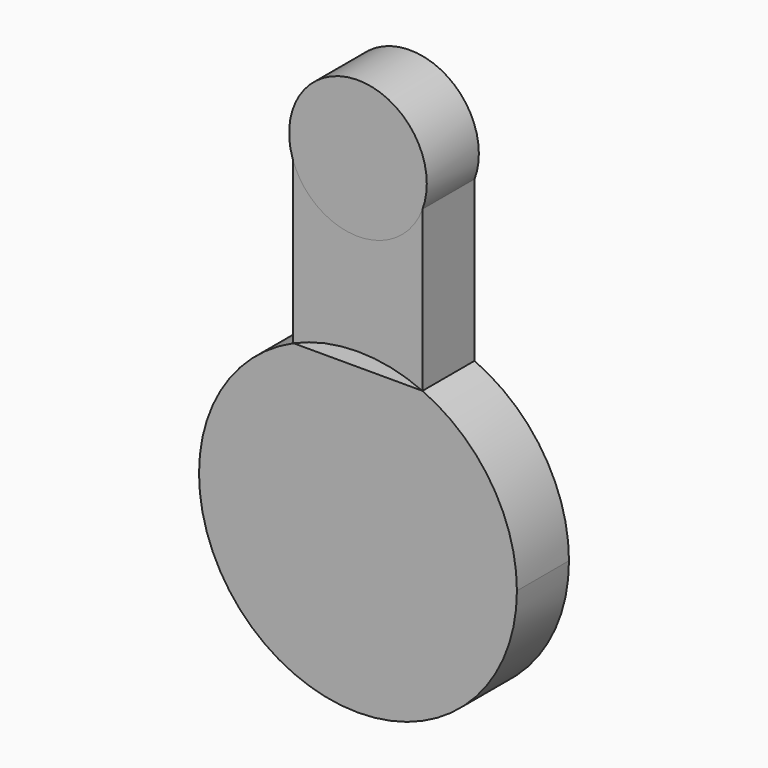
from build123d import *

# Parameters (mm, degrees)
F3_DEPTH = 25.4
F1_R     = 26.8621536908


with BuildPart() as f3:
    # F0 (on Front) → F3 (new body)
    with BuildSketch(Plane.XZ):
        with BuildLine():
            ThreePointArc((-25.17354644, 56.6988320916), (-33.8141903188, -52.0102445101), (62.0359976217, 0))
            ThreePointArc((62.0359976217, 0), (52.0102445101, 33.8141903188), (25.17354644, 56.6988320916))
            Line((25.17354644, 56.6988320916), (-25.17354644, 56.6988320916))
        make_face()
    extrude(amount=F3_DEPTH)


with BuildPart() as f3b:
    # F0 (on Front) → F3, piece 2 (new body)
    with BuildSketch(Plane.XZ):
        with BuildLine():
            ThreePointArc((-25.17354644, 56.6988320916), (0, 62.0359976217), (25.17354644, 56.6988320916))
            Line((25.17354644, 56.6988320916), (25.17354644, 123.91667068))
            Line((25.17354644, 123.91667068), (-25.2965986729, 123.91667068))
            Line((-25.2965986729, 123.91667068), (-25.2965986729, 56.6988320916))
            Line((-25.2965986729, 56.6988320916), (-25.17354644, 56.6988320916))
        make_face()
    extrude(amount=F3_DEPTH)


with BuildPart() as f3c:
    # F1 (on Front) → F3, piece 3 (new body)
    with BuildSketch(Plane.XZ):
        with Locations((0, 128.4292787313)):
            Circle(F1_R)
    extrude(amount=F3_DEPTH)


solid = Compound([f3.part, f3b.part, f3c.part])
